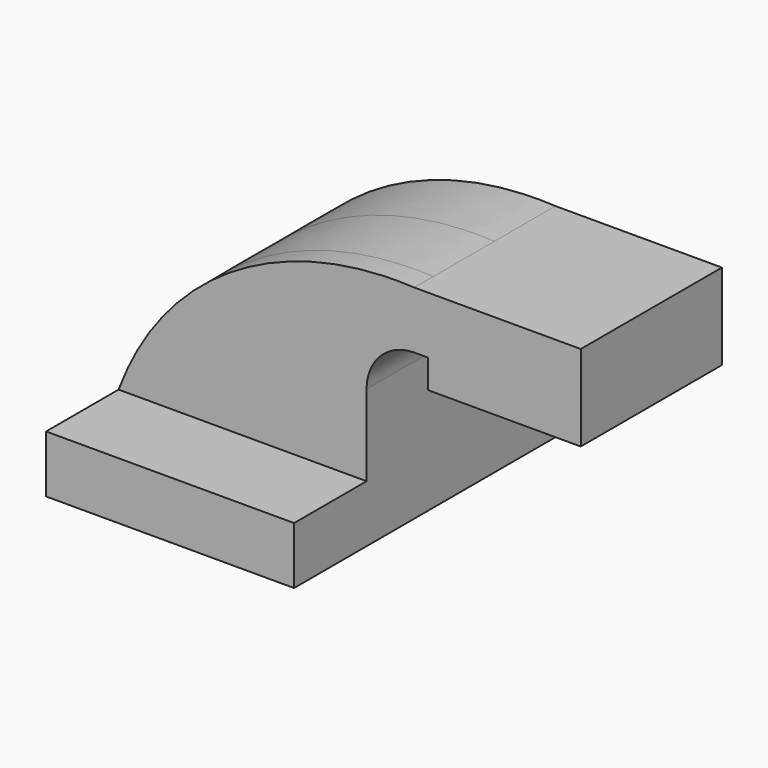
from build123d import *

# Parameters (mm, degrees)
F1_DEPTH = 63.5
F0_W     = 25.4
F0_H     = 28.575
F2_DEPTH = 25.4
F3_DEPTH = 7.9375


with BuildPart() as f1:
    # F0 (on Front) → F1 (new body, symmetric)
    with BuildSketch(Plane.XZ):
        Polygon((-41.275, 9.525), (-41.275, -9.525), (41.275, -9.525), (41.275, 9.525), (22.225, 9.525), align=None)
    extrude(amount=F1_DEPTH, both=True)

    # F0 (on Front) → F2 (join, symmetric)
    with BuildSketch(Plane.XZ):
        Polygon((-41.275, 9.525), (-41.275, -9.525), (41.275, -9.525), (41.275, 9.525), (22.225, 9.525), align=None)
        with BuildLine():
            add(Edge.make_bspline(
                [(-41.275, 9.525), (-25.692793, 51.531576), (14.306218, 73.720813), (57.15, 71.4502)],
                knots=[0, 0, 0, 0, 116.285042, 116.285042, 116.285042, 116.285042], degree=3))
            Line((-41.275, 9.525), (22.225, 9.525))
            Line((22.225, 9.525), (22.225, 36.5252))
            ThreePointArc((22.225, 36.5252), (32.454296, 61.220904), (57.15, 71.4502))
        make_face()
        with BuildLine():
            Line((22.225, 9.525), (41.275, 9.525))
            Line((41.275, 9.525), (41.275, 36.5252))
            ThreePointArc((41.275, 36.5252), (45.92468, 47.75052), (57.15, 52.4002))
            Line((57.15, 52.4002), (61.7728, 52.4002))
            Line((61.7728, 52.4002), (61.7728, 71.4502))
            Line((61.7728, 71.4502), (57.15, 71.4502))
            ThreePointArc((57.15, 71.4502), (32.454296, 61.220904), (22.225, 36.5252))
            Line((22.225, 36.5252), (22.225, 9.525))
        make_face()
        Polygon((85.725, 71.4502), (61.7728, 71.4502), (61.7728, 52.4002), (61.7728, 42.8752), (87.1728, 42.8752), (87.1728, 71.4502), align=None)
        with Locations((99.8728, 57.1627)):
            Rectangle(F0_W, F0_H)
    extrude(amount=F2_DEPTH, both=True)

    # F0 (on Front) + F2_face (on face) → F3 (join, symmetric)
    with BuildSketch(Plane.XZ):
        Polygon((-41.275, 9.525), (-41.275, -9.525), (41.275, -9.525), (41.275, 9.525), (22.225, 9.525), align=None)
        with BuildLine():
            add(Edge.make_bspline(
                [(-41.275, 9.525), (-25.692793, 51.531576), (14.306218, 73.720813), (57.15, 71.4502)],
                knots=[0, 0, 0, 0, 116.285042, 116.285042, 116.285042, 116.285042], degree=3))
            Line((-41.275, 9.525), (22.225, 9.525))
            Line((22.225, 9.525), (22.225, 36.5252))
            ThreePointArc((22.225, 36.5252), (32.454296, 61.220904), (57.15, 71.4502))
        make_face()
        with BuildLine():
            Line((22.225, 9.525), (41.275, 9.525))
            Line((41.275, 9.525), (41.275, 36.5252))
            ThreePointArc((41.275, 36.5252), (45.92468, 47.75052), (57.15, 52.4002))
            Line((57.15, 52.4002), (61.7728, 52.4002))
            Line((61.7728, 52.4002), (61.7728, 71.4502))
            Line((61.7728, 71.4502), (57.15, 71.4502))
            ThreePointArc((57.15, 71.4502), (32.454296, 61.220904), (22.225, 36.5252))
            Line((22.225, 36.5252), (22.225, 9.525))
        make_face()
        Polygon((85.725, 71.4502), (61.7728, 71.4502), (61.7728, 52.4002), (61.7728, 42.8752), (87.1728, 42.8752), (87.1728, 71.4502), align=None)
        with Locations((99.8728, 57.1627)):
            Rectangle(F0_W, F0_H)
    with BuildSketch(Plane(origin=(32.737108, -25.4, 42.563557), x_dir=(1, 0, 0), z_dir=(0, -1, 0))):
        with BuildLine():
            add(Edge.make_bspline(
                [(-74.012108, -33.038557), (-58.429901, 8.968018), (-18.43089, 31.157256), (24.412892, 28.886643)],
                knots=[0, 0, 0, 0, 116.285042, 116.285042, 116.285042, 116.285042], degree=3))
            Line((-74.012108, -33.038557), (8.537892, -33.038557))
            Line((8.537892, -33.038557), (8.537892, -6.038357))
            ThreePointArc((8.537892, -6.038357), (13.187572, 5.186963), (24.412892, 9.836643))
            Line((24.412892, 9.836643), (29.035692, 9.836643))
            Line((29.035692, 9.836643), (29.035692, 0.311643))
            Line((29.035692, 0.311643), (79.835692, 0.311643))
            Line((79.835692, 0.311643), (79.835692, 28.886643))
            Line((79.835692, 28.886643), (24.412892, 28.886643))
        make_face()
    extrude(amount=F3_DEPTH, both=True)


solid = f1.part
